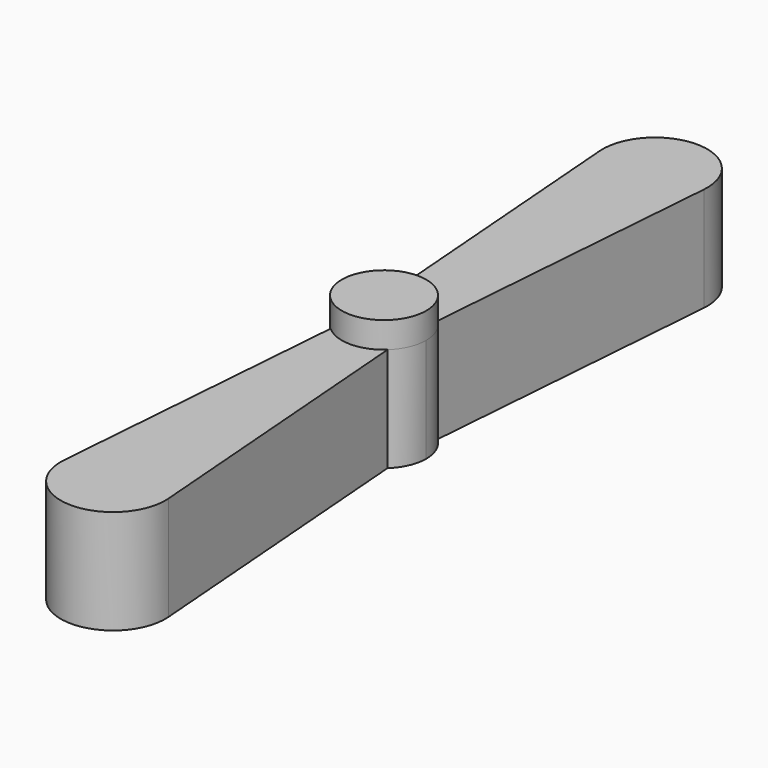
from build123d import *

# Parameters (mm, degrees)
F1_DEPTH      = 2
F2_R          = 0.809664
F3_DEPTH      = 0.5
F3_DEPTH_BACK = 2


with BuildPart() as f1:
    # F0 (on Top) → F1 (new body)
    with BuildSketch(Plane.XY):
        with BuildLine():
            Line((-2.839559, 6.419078), (-2.339559, 0))
            Line((-2.339559, 0), (-2.839559, -6.419078))
            ThreePointArc((-2.839559, -6.419078), (-1.839559, -7.5), (-0.839559, -6.419078))
            Line((-0.839559, -6.419078), (-1.339559, 0))
            Line((-1.339559, 0), (-0.839559, 6.419078))
            ThreePointArc((-0.839559, 6.419078), (-1.839559, 7.5), (-2.839559, 6.419078))
        make_face()
    extrude(amount=F1_DEPTH)

    # F2 (on face) → F3 (join, two sides)
    with BuildSketch(Plane.XY.offset(2)) as f3_sk:
        with Locations((-1.839559, 0)):
            Circle(F2_R)
    extrude(amount=F3_DEPTH)
    extrude(f3_sk.sketch, amount=-F3_DEPTH_BACK)


solid = f1.part
